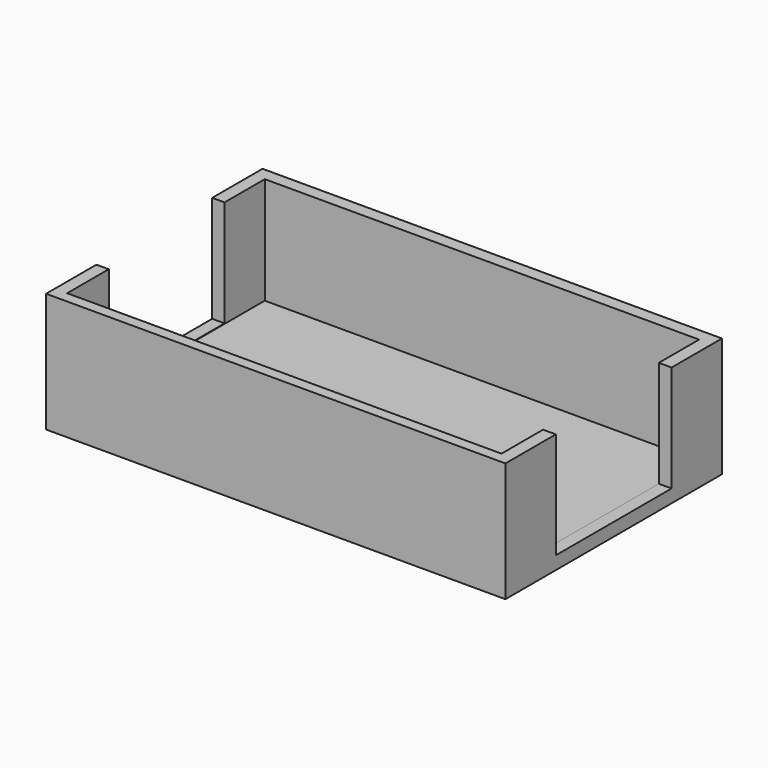
from build123d import *

# Parameters (mm, degrees)
SKETCH_W        = 73
SKETCH_H        = 43
PAD_DEPTH       = 19
SKETCH001_W     = 69.017719
SKETCH001_H     = 39.257344
POCKET_DEPTH    = 17
SKETCH002_W     = 23
SKETCH002_H     = 17
POCKET001_DEPTH = 80


with BuildPart() as part:
    # Sketch → Pad (new body)
    with BuildSketch(Plane.XY):
        with Locations((-36.5, -21.5)):
            Rectangle(SKETCH_W, SKETCH_H)
    extrude(amount=PAD_DEPTH)

    # Sketch001 (on Face6 of Pad) → Pocket (cut)
    with BuildSketch(Plane.XY.offset(19)):
        with Locations((-36.531126, -21.631982)):
            Rectangle(SKETCH001_W, SKETCH001_H)
    extrude(amount=-POCKET_DEPTH, mode=Mode.SUBTRACT)

    # Sketch002 (on Face3 of Pocket) → Pocket001 (cut)
    with BuildSketch(Plane.YZ):
        with Locations((-21.5, 10.579726)):
            Rectangle(SKETCH002_W, SKETCH002_H)
    extrude(amount=-POCKET001_DEPTH, mode=Mode.SUBTRACT)


solid = part.part
